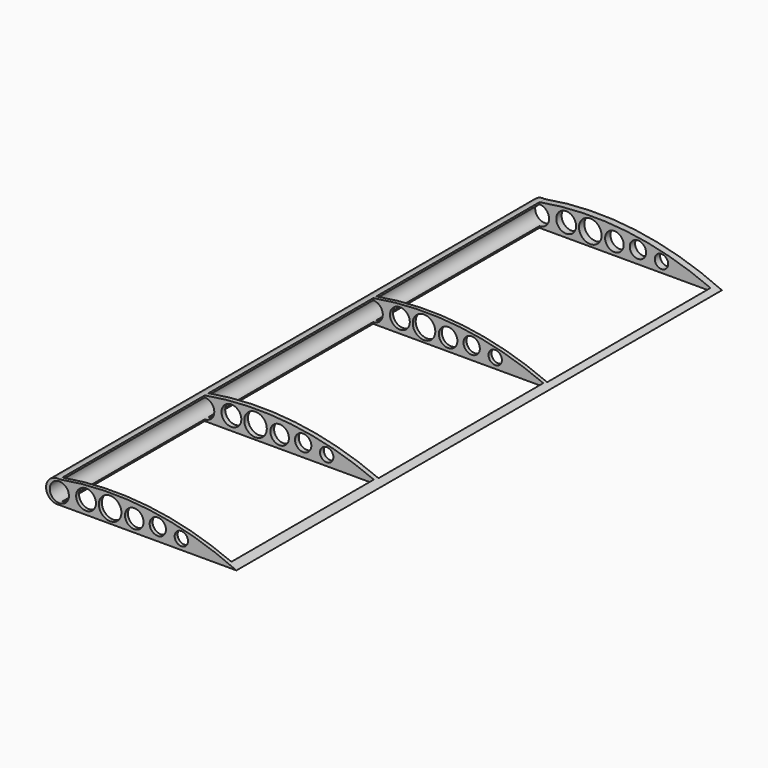
from build123d import *

# Parameters (mm, degrees)
F1_DEPTH  = 171.196
F3_W      = 47.717366
F3_H      = 50.21789
F4_DEPTH  = 198.12
F5_R      = 2.706537
F6_DEPTH  = 205.232
F7_R      = 1.888805
F8_DEPTH  = 241.046
F9_R      = 2.795925
F10_DEPTH = 243.84
F11_R     = 3.182079
F12_DEPTH = 208.534
F13_R     = 2.616602
F14_DEPTH = 201.422
F15_R     = 2.301935
F16_DEPTH = 190.754
F17_W     = 47.983054
F17_H     = 58.105506
F18_DEPTH = 171.196
F19_W     = 48.245978
F19_H     = 57.579667
F20_DEPTH = 182.626


with BuildPart() as f1:
    # F0 (on Front) → F1 (new body)
    with BuildSketch(Plane.XZ):
        with BuildLine():
            ThreePointArc((49.965762, 0), (25.475067, 7.042813), (0, 6.397561))
            ThreePointArc((0, 6.397561), (-3.740285, 3.19878), (0, 0))
            Line((0, 0), (49.965762, 0))
        make_face()
    extrude(amount=F1_DEPTH)

    # F3 (on offset) → F4 (cut)
    with BuildSketch(Plane.XY.offset(-75.692)):
        with Locations((23.858683, -145.044405)):
            Rectangle(F3_W, F3_H)
    extrude(amount=F4_DEPTH, mode=Mode.SUBTRACT)

    # F5 (on Front) → F6 (cut)
    with BuildSketch(Plane.XZ):
        with Locations((0, 3.158289)):
            Circle(F5_R)
    extrude(amount=F6_DEPTH, mode=Mode.SUBTRACT)

    # F7 (on Front) → F8 (cut)
    with BuildSketch(Plane.XZ):
        with Locations((34.417257, 2.834362)):
            Circle(F7_R)
    extrude(amount=F8_DEPTH, mode=Mode.SUBTRACT)

    # F9 (on Front) → F10 (cut)
    with BuildSketch(Plane.XZ):
        with Locations((7.531306, 3.806144)):
            Circle(F9_R)
    extrude(amount=F10_DEPTH, mode=Mode.SUBTRACT)

    # F11 (on Front) → F12 (cut)
    with BuildSketch(Plane.XZ):
        with Locations((14.333775, 3.806144)):
            Circle(F11_R)
    extrude(amount=F12_DEPTH, mode=Mode.SUBTRACT)

    # F13 (on Front) → F14 (cut)
    with BuildSketch(Plane.XZ):
        with Locations((21.136245, 3.482217)):
            Circle(F13_R)
    extrude(amount=F14_DEPTH, mode=Mode.SUBTRACT)

    # F15 (on Front) → F16 (cut)
    with BuildSketch(Plane.XZ):
        with Locations((27.776752, 3.64418)):
            Circle(F15_R)
    extrude(amount=F16_DEPTH, mode=Mode.SUBTRACT)

    # F17 (on offset) → F18 (cut)
    with BuildSketch(Plane.XY.offset(-75.692)):
        with Locations((23.991527, -89.565333)):
            Rectangle(F17_W, F17_H)
    extrude(amount=F18_DEPTH, mode=Mode.SUBTRACT)

    # F19 (on offset) → F20 (cut)
    with BuildSketch(Plane.XY.offset(-75.692)):
        with Locations((24.122989, -30.671063)):
            Rectangle(F19_W, F19_H)
    extrude(amount=F20_DEPTH, mode=Mode.SUBTRACT)


solid = f1.part
